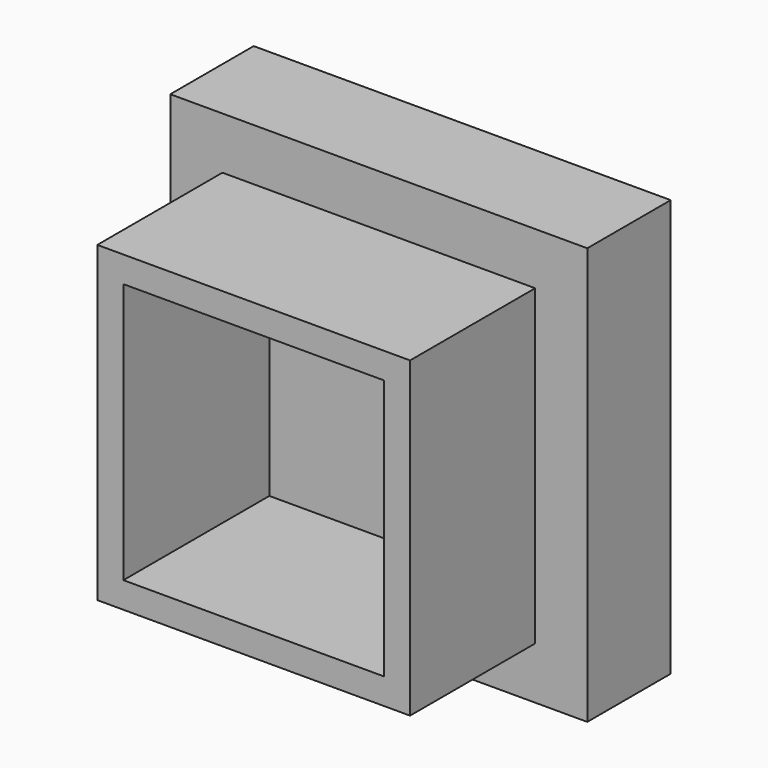
from build123d import *

# Parameters (mm, degrees)
F0_W     = 152.4
F0_H     = 152.4
F1_DEPTH = 127
F0_H_2   = 25.4
F0_W_2   = 25.4
F2_DEPTH = 50.8
F3_T     = -12.7


with BuildPart() as f1:
    # F0 (on Front) → F1 (new body)
    with BuildSketch(Plane.XZ):
        with Locations((12.7657866001, 13.8525208354)):
            Rectangle(F0_W, F0_H)
    extrude(amount=F1_DEPTH)

    # F0 (on Front) → F2 (join)
    with BuildSketch(Plane.XZ):
        with Locations((12.7657866001, 102.7525208354)):
            Rectangle(F0_W, F0_H_2)
        with Locations((-76.1342133999, 13.8525208354)):
            Rectangle(F0_W_2, F0_H)
        with Locations((-76.1342133999, 102.7525208354)):
            Rectangle(F0_W_2, F0_H_2)
        with Locations((12.7657866001, -75.0474791646)):
            Rectangle(F0_W, F0_H_2)
        with Locations((-76.1342133999, -75.0474791646)):
            Rectangle(F0_W_2, F0_H_2)
        with Locations((101.6657866001, 13.8525208354)):
            Rectangle(F0_W_2, F0_H)
        with Locations((101.6657866001, 102.7525208354)):
            Rectangle(F0_W_2, F0_H_2)
        with Locations((101.6657866001, -75.0474791646)):
            Rectangle(F0_W_2, F0_H_2)
    extrude(amount=F2_DEPTH)

    # F3
    f3_openings = [f1.faces().sort_by_distance(p)[0] for p in [
        (12.765787, -127, 13.852521),
    ]]
    offset(amount=F3_T, openings=f3_openings, kind=Kind.INTERSECTION)


solid = f1.part
